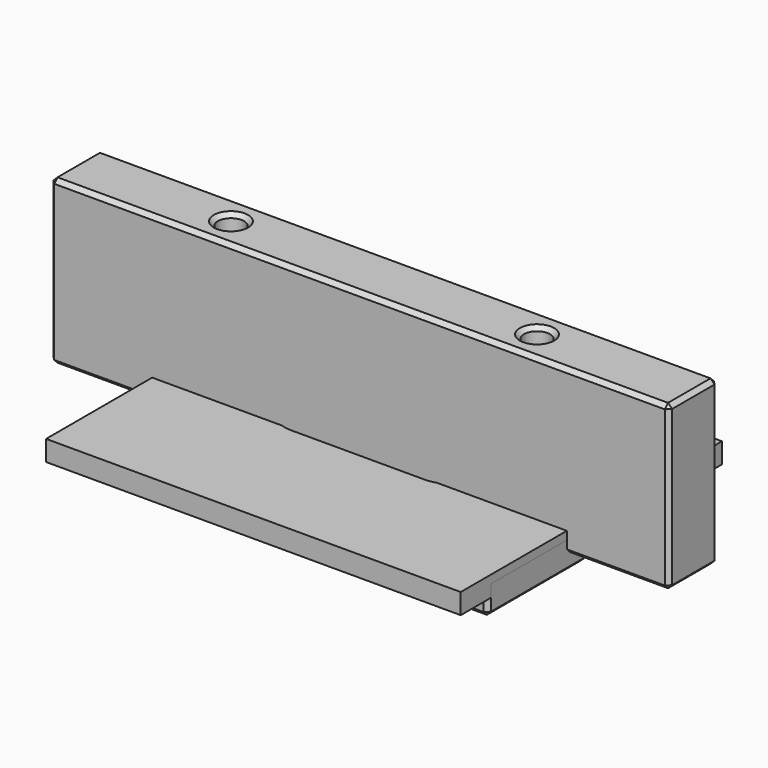
from build123d import *

# Parameters (mm, degrees)
SKETCH002_W          = 101.6
SKETCH002_H          = 80
PAD_DEPTH            = 5
SKETCH005_W          = 101.6
SKETCH005_H          = 63.5
PAD001_DEPTH         = 4
POCKET_DEPTH         = 31.751
POCKET_DEPTH_BACK    = -31.751
POCKET001_DEPTH      = 4.001
POCKET001_DEPTH_BACK = -4.001
POCKET002_DEPTH      = 3
POCKET003_DEPTH      = 8.001
POCKET004_DEPTH      = 4
CHAMFER003_SIZE      = 1
SKETCH009_W          = 151.6
SKETCH009_H          = 15
SKETCH009_R          = 3.2
PAD002_DEPTH         = 40
CHAMFER002_SIZE      = 1


with BuildPart() as test:
    # Sketch002 → Pad (new body)
    with BuildSketch(Plane.XY):
        Rectangle(SKETCH002_W, SKETCH002_H)
        with BuildLine():
            ThreePointArc((-16.375, 7.9375), (-24.3125, 0), (-16.375, -7.9375))
            Line((-16.375, -7.9375), (16.375, -7.9375))
            ThreePointArc((16.375, -7.9375), (24.3125, 0), (16.375, 7.9375))
            Line((-16.375, 7.9375), (16.375, 7.9375))
        make_face(mode=Mode.SUBTRACT)
    extrude(amount=PAD_DEPTH)


with BuildPart() as plate:
    # Sketch005 → Pad001 (new body, symmetric)
    with BuildSketch(Plane.XY):
        Rectangle(SKETCH005_W, SKETCH005_H)
        with BuildLine():
            ThreePointArc((-16.375, 7.9375), (-24.3125, 0), (-16.375, -7.9375))
            Line((-16.375, -7.9375), (16.375, -7.9375))
            ThreePointArc((16.375, -7.9375), (24.3125, 0), (16.375, 7.9375))
            Line((-16.375, 7.9375), (16.375, 7.9375))
        make_face(mode=Mode.SUBTRACT)
    extrude(amount=PAD001_DEPTH, both=True)

    # Sketch006 → Pocket (cut, two sides)
    with BuildSketch(Plane.XZ) as pocket_sk:
        Polygon((-11.6125, -0.916544), (-11.6125, 0.916544), (-13.2, 1.833087), (-14.7875, 0.916544), (-14.7875, -0.916544), (-13.2, -1.833087), align=None)
        Polygon((13.2, -1.833087), (14.7875, -0.916544), (14.7875, 0.916544), (13.2, 1.833087), (11.6125, 0.916544), (11.6125, -0.916544), align=None)
    extrude(amount=-POCKET_DEPTH, mode=Mode.SUBTRACT)
    extrude(pocket_sk.sketch, amount=-POCKET_DEPTH_BACK, mode=Mode.SUBTRACT)

    # Sketch007 → Pocket001 (cut, two sides)
    with BuildSketch(Plane.XY) as pocket001_sk:
        with BuildLine():
            ThreePointArc((-34.7, 18), (-37.5, 20.8), (-40.3, 18))
            Line((-40.3, 18), (-40.3, 8))
            ThreePointArc((-40.3, 8), (-37.5, 5.2), (-34.7, 8))
            Line((-34.7, 18), (-34.7, 8))
        make_face()
        with BuildLine():
            ThreePointArc((40.3, 18), (37.5, 20.8), (34.7, 18))
            Line((34.7, 18), (34.7, 8))
            ThreePointArc((34.7, 8), (37.5, 5.2), (40.3, 8))
            Line((40.3, 18), (40.3, 8))
        make_face()
    extrude(amount=-POCKET001_DEPTH, mode=Mode.SUBTRACT)
    extrude(pocket001_sk.sketch, amount=-POCKET001_DEPTH_BACK, mode=Mode.SUBTRACT)

    # Sketch008 (on Face5 of Pocket001) → Pocket002 (cut)
    with BuildSketch(Plane.XY.offset(4)):
        with BuildLine():
            ThreePointArc((42.5, 18), (37.5, 23), (32.5, 18))
            Line((32.5, 18), (32.5, 8))
            ThreePointArc((32.5, 8), (37.5, 3), (42.5, 8))
            Line((42.5, 18), (42.5, 8))
        make_face()
        with BuildLine():
            ThreePointArc((-32.5, 18), (-37.5, 23), (-42.5, 18))
            Line((-42.5, 18), (-42.5, 8))
            ThreePointArc((-42.5, 8), (-37.5, 3), (-32.5, 8))
            Line((-32.5, 18), (-32.5, 8))
        make_face()
    extrude(amount=-POCKET002_DEPTH, mode=Mode.SUBTRACT)

    # Sketch010 (on Face5 of Pocket002) → Pocket003 (cut, through all)
    with BuildSketch(Plane.XY.offset(4)):
        Polygon((-50.8, 1.5), (-48.201924, 0), (-50.8, -1.5), align=None)
        Polygon((48.201924, 0), (50.8, 1.5), (50.8, -1.5), align=None)
    extrude(amount=-POCKET003_DEPTH, mode=Mode.SUBTRACT)

    # Sketch011 (on Face2 of Pocket003) → Pocket004 (cut)
    with BuildSketch(Plane(origin=(0, 0, -4), x_dir=(1, 0, 0), z_dir=(0, 0, -1))):
        Polygon((-0.75, 7.9375), (0, 9.236538), (0.75, 7.9375), align=None)
        Polygon((-0.75, -7.9375), (0.75, -7.9375), (0, -9.236538), align=None)
    extrude(amount=-POCKET004_DEPTH, mode=Mode.SUBTRACT)

    # Chamfer003
    chamfer003_edges = [plate.edges().sort_by_distance(p)[0] for p in [
        (0, 31.75, 4),
        (50.8, 16.625, 4),
        (49.500962, 0.75, 4),
        (49.500962, -0.75, 4),
        (50.8, -16.625, 4),
        (0, -31.75, 4),
        (-50.8, -16.625, 4),
        (-49.500962, -0.75, 4),
        (-49.500962, 0.75, 4),
        (-50.8, 16.625, 4),
        (-24.3125, 0, 4),
        (0, 7.9375, 4),
        (0, -7.9375, 4),
        (24.3125, 0, 4),
        (-37.5, 23, 4),
        (-32.5, 13, 4),
        (-42.5, 13, 4),
        (-37.5, 3, 4),
        (37.5, 23, 4),
        (42.5, 13, 4),
        (32.5, 13, 4),
        (37.5, 3, 4),
        (50.8, 31.75, 0),
        (0, 31.75, -4),
        (-50.8, 31.75, 0),
        (13.99375, 31.75, -1.374815),
        (14.7875, 31.75, 0),
        (13.99375, 31.75, 1.374815),
        (12.40625, 31.75, 1.374815),
        (11.6125, 31.75, 0),
        (12.40625, 31.75, -1.374815),
        (-11.6125, 31.75, 0),
        (-12.40625, 31.75, 1.374815),
        (-13.99375, 31.75, 1.374815),
        (-14.7875, 31.75, 0),
        (-13.99375, 31.75, -1.374815),
        (-12.40625, 31.75, -1.374815),
        (50.8, 16.625, -4),
        (-50.8, 16.625, -4),
        (49.500962, 0.75, -4),
        (-49.500962, 0.75, -4),
        (49.500962, -0.75, -4),
        (-49.500962, -0.75, -4),
        (50.8, -16.625, -4),
        (-50.8, -16.625, -4),
        (0, -31.75, -4),
        (-24.3125, 0, -4),
        (-8.5625, -7.9375, -4),
        (-0.375, -8.587019, -4),
        (0.375, -8.587019, -4),
        (8.5625, -7.9375, -4),
        (24.3125, 0, -4),
        (8.5625, 7.9375, -4),
        (0.375, 8.587019, -4),
        (-0.375, 8.587019, -4),
        (-8.5625, 7.9375, -4),
        (-37.5, 20.8, -4),
        (-34.7, 13, -4),
        (-40.3, 13, -4),
        (-37.5, 5.2, -4),
        (37.5, 20.8, -4),
        (40.3, 13, -4),
        (34.7, 13, -4),
        (37.5, 5.2, -4),
        (-50.8, -31.75, 0),
        (50.8, -31.75, 0),
        (-11.6125, -31.75, 0),
        (-12.40625, -31.75, -1.374815),
        (-13.99375, -31.75, -1.374815),
        (-14.7875, -31.75, 0),
        (-13.99375, -31.75, 1.374815),
        (-12.40625, -31.75, 1.374815),
        (13.99375, -31.75, -1.374815),
        (12.40625, -31.75, -1.374815),
        (11.6125, -31.75, 0),
        (12.40625, -31.75, 1.374815),
        (13.99375, -31.75, 1.374815),
        (14.7875, -31.75, 0),
    ]]
    chamfer(chamfer003_edges, length=CHAMFER003_SIZE)


with BuildPart() as fence:
    # Sketch009 → Pad002 (new body)
    with BuildSketch(Plane.XY):
        Rectangle(SKETCH009_W, SKETCH009_H)
        with Locations((-37.5, 0)):
            Circle(SKETCH009_R, mode=Mode.SUBTRACT)
        with Locations((37.5, 0)):
            Circle(SKETCH009_R, mode=Mode.SUBTRACT)
    extrude(amount=PAD002_DEPTH)

    # Chamfer002
    chamfer002_edges = [fence.edges().sort_by_distance(p)[0] for p in [
        (-75.8, 0, 40),
        (0, -7.5, 40),
        (75.8, 0, 40),
        (0, 7.5, 40),
        (34.3, 0, 40),
        (-40.7, 0, 40),
        (-75.8, 0, 0),
        (0, -7.5, 0),
        (75.8, 0, 0),
        (0, 7.5, 0),
        (34.3, 0, 0),
        (-40.7, 0, 0),
        (-75.8, 7.5, 20),
        (-75.8, -7.5, 20),
        (75.8, -7.5, 20),
        (75.8, 7.5, 20),
    ]]
    chamfer(chamfer002_edges, length=CHAMFER002_SIZE)


solid = Compound([test.part, plate.part, fence.part])
